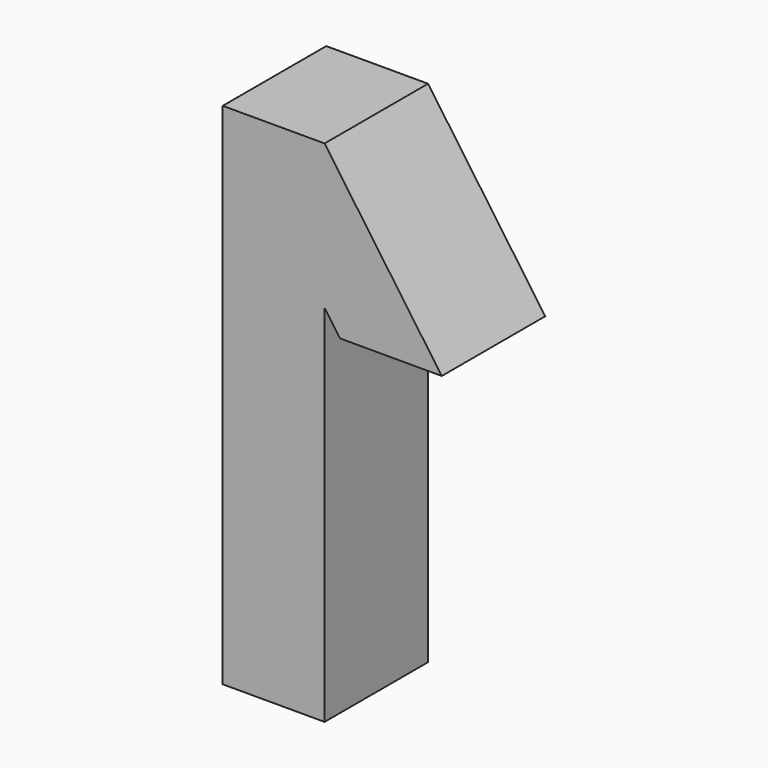
from build123d import *

# Parameters (mm, degrees)
F1_DEPTH = 25.4


with BuildPart() as f1:
    # F0 (on Front) → F1 (new body)
    with BuildSketch(Plane.XZ):
        Polygon((10, 21.561685), (-10, 50), (-10, -50), (10, -50), align=None)
        Polygon((10, 50), (-10, 50), (10, 21.561685), align=None)
        Polygon((33.010388, 17.281167), (10, 50), (10, 21.561685), (13.010388, 17.281167), align=None)
    extrude(amount=F1_DEPTH)


solid = f1.part
